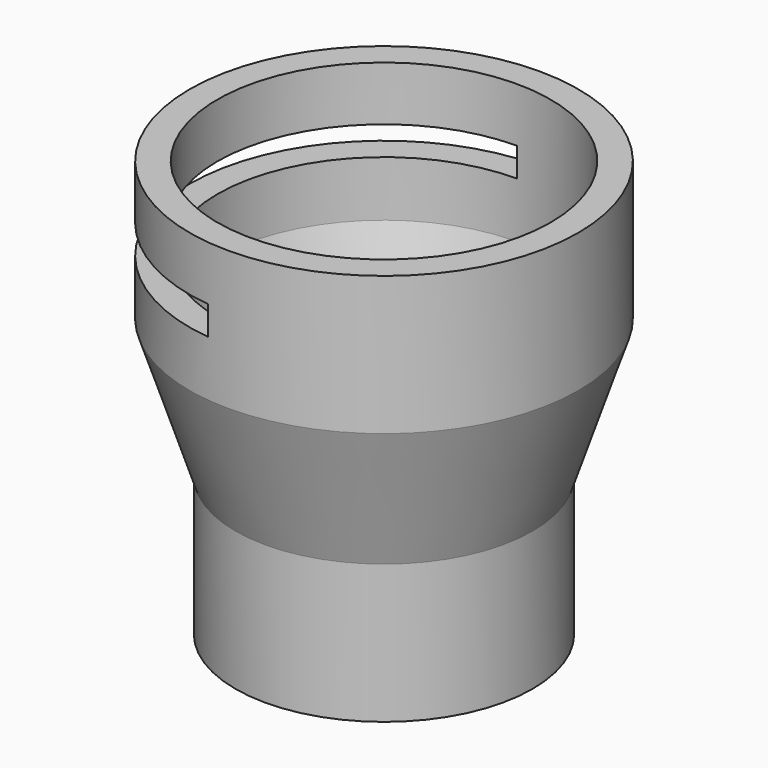
from build123d import *

# Parameters (mm, degrees)
F0_R      = 26.75
F0_R_2    = 21.75
F1_DEPTH  = 25
F3_R      = 22.935905
F3_R_2    = 18.75
F4_DEPTH  = 2
F6_R      = 35
F7_R      = 26.75
F9_R      = 30
F10_R     = 18.714906
F12_R     = 35
F12_R_2   = 30
F13_DEPTH = 25
F16_DEPTH = 5.2


with BuildPart() as f1:
    # F0 (on Top) → F1 (new body)
    with BuildSketch(Plane.XY):
        Circle(F0_R)
        Circle(F0_R_2, mode=Mode.SUBTRACT)
    extrude(amount=F1_DEPTH)

    # F3 (on offset) → F4 (join)
    with BuildSketch(Plane.XY.offset(11.9)):
        Circle(F3_R)
        Circle(F3_R_2, mode=Mode.SUBTRACT)
    extrude(amount=F4_DEPTH)

    # F6 (on offset) → F8 section 0
    with BuildSketch(Plane.XY.offset(50)):
        Circle(F6_R)
    # F7 (on face) → F8 section 1
    with BuildSketch(Plane.XY.offset(25)):
        Circle(F7_R)
    loft()

    # F9 (on face) → F11 section 0
    with BuildSketch(Plane.XY.offset(50)):
        Circle(F9_R)
    # F10 (on face) → F11 section 1
    with BuildSketch(Plane(origin=(0, 0, 11.9), x_dir=(1, 0, 0), z_dir=(0, 0, -1))):
        Circle(F10_R)
    loft(mode=Mode.SUBTRACT)

    # F12 (on face) → F13 (join)
    with BuildSketch(Plane.XY.offset(50)):
        Circle(F12_R)
        Circle(F12_R_2, mode=Mode.SUBTRACT)
    extrude(amount=F13_DEPTH)

    # F15 (on offset) → F16 (cut)
    with BuildSketch(Plane.XY.offset(60)):
        with BuildLine():
            Line((-0.026878, 29.999988), (-3.897005, 34.782371))
            ThreePointArc((-3.897005, 34.782371), (-35, 0), (-3.897005, -34.782371))
            Line((-3.897005, -34.782371), (-0.026878, -29.999988))
            ThreePointArc((-0.026878, -29.999988), (-30, 0), (-0.026878, 29.999988))
        make_face()
        with BuildLine():
            Line((-0.026878, -29.999988), (-0.026878, 29.999988))
            ThreePointArc((-0.026878, 29.999988), (-30, 0), (-0.026878, -29.999988))
        make_face()
    extrude(amount=F16_DEPTH, mode=Mode.SUBTRACT)


solid = f1.part
